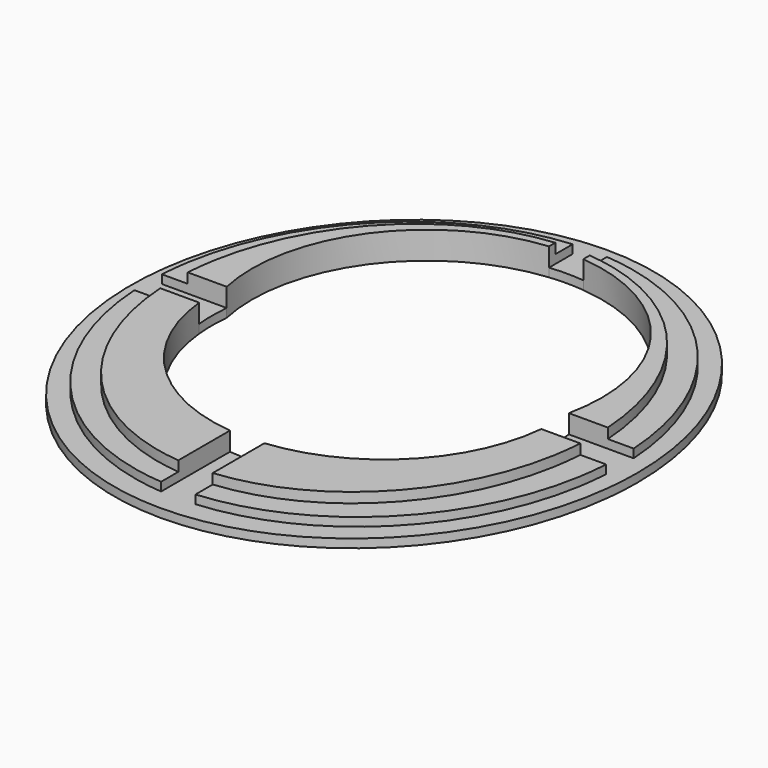
from build123d import *

# Parameters (mm, degrees)
F1_DEPTH = 1
F2_DEPTH = 2
F3_DEPTH = 3.175


with BuildPart() as f1:
    # F0 (on Top) → F1 (new body)
    with BuildSketch(Plane.XY):
        with BuildLine():
            add(Edge.make_bspline(
                [(29.5, 0), (29.5, 56.291651246), (-14.75, 28.145825623), (-59, 0), (-14.75, -28.145825623), (29.5, -56.291651246), (29.5, 0)],
                knots=[4.7123889804, 4.7123889804, 4.7123889804, 6.8067840828, 6.8067840828, 8.9011791852, 8.9011791852, 10.9955742876, 10.9955742876, 10.9955742876], degree=2, weights=[1, 0.5, 1, 0.5, 1, 0.5, 1]))
        make_face()
        with BuildLine():
            ThreePointArc((-19.8997487421, -2), (-20, 0), (-19.8997487421, 2))
            Line((-19.8997487421, 2), (-24.435120707, 2))
            Line((-24.435120707, 2), (-27.4388208363, 2))
            add(Edge.make_bspline(
                [(-2, 29.9205559678), (-25.8449375179, 28.0237030929), (-27.4388208363, 2)],
                knots=[0.072791538, 0.072791538, 0.072791538, 1.5040801784, 1.5040801784, 1.5040801784], degree=2, weights=[1, 0.754670657, 1]))
            Line((-2, 29.9205559678), (-2, 27.4082183506))
            Line((-2, 27.4082183506), (-2, 26.492582936))
            ThreePointArc((-2, 26.492582936), (0, 26.5911149078), (2, 26.492582936))
            Line((2, 26.492582936), (2, 27.4082183506))
            Line((2, 27.4082183506), (2, 29.9205559678))
            add(Edge.make_bspline(
                [(27.4388208363, 2), (25.8449375179, 28.0237030929), (2, 29.9205559678)],
                knots=[4.7791051288, 4.7791051288, 4.7791051288, 6.2103937692, 6.2103937692, 6.2103937692], degree=2, weights=[1, 0.754670657, 1]))
            Line((27.4388208363, 2), (24.435120707, 2))
            Line((24.435120707, 2), (19.8997487421, 2))
            ThreePointArc((19.8997487421, 2), (20, 0), (19.8997487421, -2))
            Line((19.8997487421, -2), (24.435120707, -2))
            Line((24.435120707, -2), (27.4388208363, -2))
            add(Edge.make_bspline(
                [(2, -29.9205559678), (25.8449375179, -28.0237030929), (27.4388208363, -2)],
                knots=[3.2143841916, 3.2143841916, 3.2143841916, 4.645672832, 4.645672832, 4.645672832], degree=2, weights=[1, 0.754670657, 1]))
            Line((2, -29.9205559678), (2, -27.4082183506))
            Line((2, -27.4082183506), (2, -19.8997487421))
            ThreePointArc((2, -19.8997487421), (0, -20), (-2, -19.8997487421))
            Line((-2, -19.8997487421), (-2, -27.4082183506))
            Line((-2, -27.4082183506), (-2, -29.9205559678))
            add(Edge.make_bspline(
                [(-27.4388208363, -2), (-25.8449375179, -28.0237030929), (-2, -29.9205559678)],
                knots=[1.6375124752, 1.6375124752, 1.6375124752, 3.0688011156, 3.0688011156, 3.0688011156], degree=2, weights=[1, 0.754670657, 1]))
            Line((-27.4388208363, -2), (-24.435120707, -2))
            Line((-24.435120707, -2), (-19.8997487421, -2))
        make_face(mode=Mode.SUBTRACT)
    extrude(amount=F1_DEPTH)

    # F0 (on Top) → F2 (join)
    with BuildSketch(Plane.XY):
        with BuildLine():
            Line((-27.4388208363, 2), (-24.435120707, 2))
            add(Edge.make_bspline(
                [(-2, 27.4082183506), (-22.9093485273, 25.4859106273), (-24.435120707, 2)],
                knots=[0.0817235912, 0.0817235912, 0.0817235912, 1.4980047888, 1.4980047888, 1.4980047888], degree=2, weights=[1, 0.7595725848, 1]))
            Line((-2, 27.4082183506), (-2, 29.9205559678))
            add(Edge.make_bspline(
                [(-2, 29.9205559678), (-25.8449375179, 28.0237030929), (-27.4388208363, 2)],
                knots=[0.072791538, 0.072791538, 0.072791538, 1.5040801784, 1.5040801784, 1.5040801784], degree=2, weights=[1, 0.754670657, 1]))
        make_face()
        with BuildLine():
            Line((2, 29.9205559678), (2, 27.4082183506))
            add(Edge.make_bspline(
                [(24.435120707, 2), (22.9093485273, 25.4859106273), (2, 27.4082183506)],
                knots=[4.7851805184, 4.7851805184, 4.7851805184, 6.201461716, 6.201461716, 6.201461716], degree=2, weights=[1, 0.7595725848, 1]))
            Line((24.435120707, 2), (27.4388208363, 2))
            add(Edge.make_bspline(
                [(27.4388208363, 2), (25.8449375179, 28.0237030929), (2, 29.9205559678)],
                knots=[4.7791051288, 4.7791051288, 4.7791051288, 6.2103937692, 6.2103937692, 6.2103937692], degree=2, weights=[1, 0.754670657, 1]))
        make_face()
        with BuildLine():
            add(Edge.make_bspline(
                [(2, -27.4082183506), (22.9093485273, -25.4859106273), (24.435120707, -2)],
                knots=[3.2233162448, 3.2233162448, 3.2233162448, 4.6395974424, 4.6395974424, 4.6395974424], degree=2, weights=[1, 0.7595725848, 1]))
            Line((2, -27.4082183506), (2, -29.9205559678))
            add(Edge.make_bspline(
                [(2, -29.9205559678), (25.8449375179, -28.0237030929), (27.4388208363, -2)],
                knots=[3.2143841916, 3.2143841916, 3.2143841916, 4.645672832, 4.645672832, 4.645672832], degree=2, weights=[1, 0.754670657, 1]))
            Line((27.4388208363, -2), (24.435120707, -2))
        make_face()
        with BuildLine():
            add(Edge.make_bspline(
                [(-24.435120707, -2), (-22.9093485273, -25.4859106273), (-2, -27.4082183506)],
                knots=[1.6435878648, 1.6435878648, 1.6435878648, 3.0598690624, 3.0598690624, 3.0598690624], degree=2, weights=[1, 0.7595725848, 1]))
            Line((-24.435120707, -2), (-27.4388208363, -2))
            add(Edge.make_bspline(
                [(-27.4388208363, -2), (-25.8449375179, -28.0237030929), (-2, -29.9205559678)],
                knots=[1.6375124752, 1.6375124752, 1.6375124752, 3.0688011156, 3.0688011156, 3.0688011156], degree=2, weights=[1, 0.754670657, 1]))
            Line((-2, -29.9205559678), (-2, -27.4082183506))
        make_face()
    extrude(amount=F2_DEPTH)

    # F0 (on Top) → F3 (join)
    with BuildSketch(Plane.XY):
        with BuildLine():
            Line((-24.435120707, 2), (-19.8997487421, 2))
            ThreePointArc((-19.8997487421, 2), (-16.4277631911, 18.249659907), (-2, 26.492582936))
            Line((-2, 26.492582936), (-2, 27.4082183506))
            add(Edge.make_bspline(
                [(-2, 27.4082183506), (-22.9093485273, 25.4859106273), (-24.435120707, 2)],
                knots=[0.0817235912, 0.0817235912, 0.0817235912, 1.4980047888, 1.4980047888, 1.4980047888], degree=2, weights=[1, 0.7595725848, 1]))
        make_face()
        with BuildLine():
            Line((2, 27.4082183506), (2, 26.492582936))
            ThreePointArc((2, 26.492582936), (16.4277631911, 18.249659907), (19.8997487421, 2))
            Line((19.8997487421, 2), (24.435120707, 2))
            add(Edge.make_bspline(
                [(24.435120707, 2), (22.9093485273, 25.4859106273), (2, 27.4082183506)],
                knots=[4.7851805184, 4.7851805184, 4.7851805184, 6.201461716, 6.201461716, 6.201461716], degree=2, weights=[1, 0.7595725848, 1]))
        make_face()
        with BuildLine():
            ThreePointArc((19.8997487421, -2), (14.1421356237, -14.1421356237), (2, -19.8997487421))
            Line((2, -19.8997487421), (2, -27.4082183506))
            add(Edge.make_bspline(
                [(2, -27.4082183506), (22.9093485273, -25.4859106273), (24.435120707, -2)],
                knots=[3.2233162448, 3.2233162448, 3.2233162448, 4.6395974424, 4.6395974424, 4.6395974424], degree=2, weights=[1, 0.7595725848, 1]))
            Line((24.435120707, -2), (19.8997487421, -2))
        make_face()
        with BuildLine():
            ThreePointArc((-2, -19.8997487421), (-14.1421356237, -14.1421356237), (-19.8997487421, -2))
            Line((-19.8997487421, -2), (-24.435120707, -2))
            add(Edge.make_bspline(
                [(-24.435120707, -2), (-22.9093485273, -25.4859106273), (-2, -27.4082183506)],
                knots=[1.6435878648, 1.6435878648, 1.6435878648, 3.0598690624, 3.0598690624, 3.0598690624], degree=2, weights=[1, 0.7595725848, 1]))
            Line((-2, -27.4082183506), (-2, -19.8997487421))
        make_face()
    extrude(amount=F3_DEPTH)


solid = f1.part
